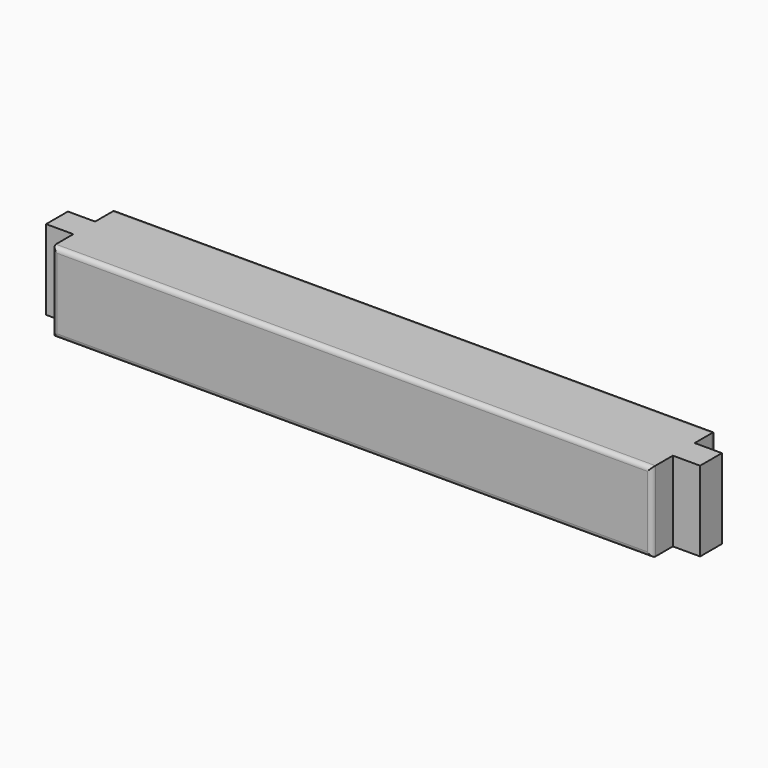
from build123d import *

# Parameters (mm, degrees)
F0_W     = 88
F0_H     = 88
F1_DEPTH = 720
F2_W     = 30
F2_H     = 29
F3_DEPTH = 88.001
F4_W     = 30
F4_H     = 29
F5_DEPTH = 88.001
F6_R     = 5


with BuildPart() as f1:
    # F0 (on Right) → F1 (new body)
    with BuildSketch(Plane.YZ):
        with Locations((44, 44)):
            Rectangle(F0_W, F0_H)
    extrude(amount=F1_DEPTH)

    # F2 (on face) → F3 (cut, through all)
    with BuildSketch(Plane.XY.offset(88)):
        with Locations((705, 14.5)):
            Rectangle(F2_W, F2_H)
        with Locations((705, 73.5)):
            Rectangle(F2_W, F2_H)
    extrude(amount=-F3_DEPTH, mode=Mode.SUBTRACT)

    # F4 (on face) → F5 (cut, through all)
    with BuildSketch(Plane.XY.offset(88)):
        with Locations((15, 73.5)):
            Rectangle(F4_W, F4_H)
        with Locations((15, 14.5)):
            Rectangle(F4_W, F4_H)
    extrude(amount=-F5_DEPTH, mode=Mode.SUBTRACT)

    # F6
    f6_edges = [f1.edges().sort_by_distance(p)[0] for p in [
        (30, 0, 44),
        (360, 0, 0),
        (690, 0, 44),
        (360, 0, 88),
        (360, 88, 88),
        (360, 88, 0),
        (690, 88, 44),
        (30, 88, 44),
    ]]
    fillet(f6_edges, radius=F6_R)


solid = f1.part
